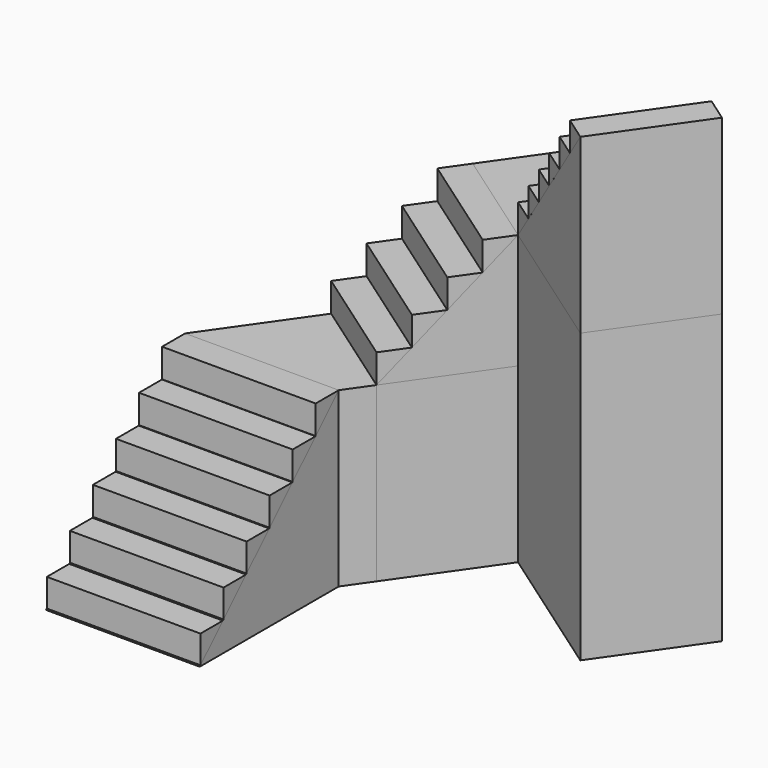
from build123d import *

# Parameters (mm, degrees)
F1_DEPTH  = 25.4
F3_DEPTH  = 28.575
F5_DEPTH  = 20.80768
F7_DEPTH  = 47.625
F9_DEPTH  = 19.05
F11_DEPTH = 25.4
F13_DEPTH = 20.80768
F15_DEPTH = 19.05
F17_DEPTH = 47.625
F19_DEPTH = 28.575


with BuildPart() as f1:
    # F0 (on Right) → F1 (new body)
    with BuildSketch(Plane.YZ):
        Polygon((4.454064, 17.63429), (4.454064, 12.87179), (9.216739, 17.634465), align=None)
        Polygon((-0.308436, 12.87179), (-0.308436, 8.10929), (4.454064, 12.87179), align=None)
        Polygon((-5.070936, 8.10929), (-5.070936, 3.34679), (-0.308436, 8.10929), align=None)
        Polygon((-9.833436, 3.34679), (-9.833436, -1.41571), (-5.070936, 3.34679), align=None)
        Polygon((-14.595936, -1.41571), (-14.595936, -6.17821), (-9.833436, -1.41571), align=None)
        Polygon((-19.358436, -6.17821), (-19.358436, -10.94071), (-14.595936, -6.17821), align=None)
    extrude(amount=F1_DEPTH)


with BuildPart() as f3:
    # F2 (on face) → F3 (new body)
    with BuildSketch(Plane(origin=(0, -0.000648, 17.634126), x_dir=(1, 0, 0), z_dir=(0, -3.7e-05, 1))):
        Polygon((11.270112, 25.312776), (0, 9.217387), (25.4, 9.217387), (28.313768, 13.378679), align=None)
    extrude(amount=-F3_DEPTH)


with BuildPart() as f5:
    # F4 (on face) → F5 (new body)
    with BuildSketch(Plane(origin=(-4.330755, 3.032428, 0.000111), x_dir=(-0.573576, -0.819152, 1.5e-05), z_dir=(-0.819152, 0.573576, 2.1e-05))):
        Polygon((-36.722638, 27.160346), (-31.960565, 22.397846), (-31.960565, 27.160346), align=None)
        Polygon((-31.960565, 22.397846), (-27.198492, 17.635346), (-27.198492, 22.397846), align=None)
        Polygon((-41.48471, 31.922846), (-36.722638, 27.160346), (-36.722638, 31.922846), align=None)
        Polygon((-46.246783, 36.685346), (-41.48471, 31.922846), (-41.48471, 36.685346), align=None)
    extrude(amount=-F5_DEPTH)


with BuildPart() as f7:
    # F6 (on face) → F7 (new body)
    with BuildSketch(Plane(origin=(0.000944, 0, 36.685346), x_dir=(1, 0, -2.6e-05), z_dir=(2.6e-05, 0, 1))):
        Polygon((33.121941, 56.520421), (22.19531, 40.915575), (39.239963, 28.98078), (50.166595, 44.585626), align=None)
    extrude(amount=-F7_DEPTH)


with BuildPart() as f9:
    # F8 (on face) → F9 (new body)
    with BuildSketch(Plane(origin=(37.452696, 53.487994, -0.000963), x_dir=(-0.819152, 0.573576, -1e-05), z_dir=(0.573576, 0.819152, -1.5e-05))):
        Polygon((-44.080067, 65.241176), (-39.335952, 60.497359), (-39.335952, 65.259859), align=None)
        Polygon((-39.335952, 60.497359), (-34.573153, 55.734859), (-34.573153, 60.497359), align=None)
        Polygon((-34.573153, 55.734859), (-29.810353, 50.972359), (-29.810353, 55.734859), align=None)
        Polygon((-29.810353, 50.972359), (-25.047554, 46.209859), (-25.047554, 50.972359), align=None)
        Polygon((-25.047554, 46.209859), (-20.284755, 41.447359), (-20.284755, 46.209859), align=None)
        Polygon((-20.284755, 41.447359), (-15.521956, 36.684859), (-15.522106, 41.447359), align=None)
    extrude(amount=-F9_DEPTH)


with BuildPart() as f11:
    # F10 (on face) → F11 (new body)
    with BuildSketch(Plane.YZ.offset(25.4)):
        Polygon((9.217789, -10.940535), (9.216739, 17.634465), (4.454064, 12.87179), (4.454064, 12.89745), (-19.514113, -10.941591), align=None)
    extrude(amount=-F11_DEPTH)


with BuildPart() as f13:
    # F12 (on face) → F13 (new body)
    with BuildSketch(Plane(origin=(12.713898, -8.902367, -0.000327), x_dir=(0.573576, 0.819152, -1.5e-05), z_dir=(0.819152, -0.573576, -2.1e-05))):
        Polygon((46.246783, 17.635346), (46.246783, 36.685346), (41.48471, 31.922846), (41.48471, 31.923273), (27.196783, 17.635346), align=None)
    extrude(amount=-F13_DEPTH)


with BuildPart() as f15:
    # F14 (on face) → F15 (new body)
    with BuildSketch(Plane(origin=(26.526065, 37.883147, -0.000682), x_dir=(0.819152, -0.573576, 1e-05), z_dir=(-0.573576, -0.819152, 1.5e-05))):
        Polygon((44.080067, 36.666176), (44.080067, 65.241176), (15.505067, 36.666176), align=None)
    extrude(amount=-F15_DEPTH)


with BuildPart() as f17:
    # F16 (on face) → F17 (new body)
    with BuildSketch(Plane(origin=(0, 0.00066, 36.666176), x_dir=(1, 0, 0), z_dir=(0, -1.8e-05, -1))):
        Polygon((50.153704, -44.594652), (73.560974, -28.204706), (62.634342, -12.599859), (39.227073, -28.989806), align=None)
    extrude(amount=F17_DEPTH)


with BuildPart() as f19:
    # F18 (on face) → F19 (new body)
    with BuildSketch(Plane(origin=(0.000454, 0, 17.635346), x_dir=(1, 0, -2.6e-05), z_dir=(-2.6e-05, 0, -1))):
        Polygon((11.268679, -25.310728), (22.19531, -40.915575), (39.239963, -28.98078), (28.313332, -13.375933), align=None)
    extrude(amount=F19_DEPTH)


solid = Compound([f1.part, f3.part, f5.part, f7.part, f9.part, f11.part, f13.part, f15.part, f17.part, f19.part])
